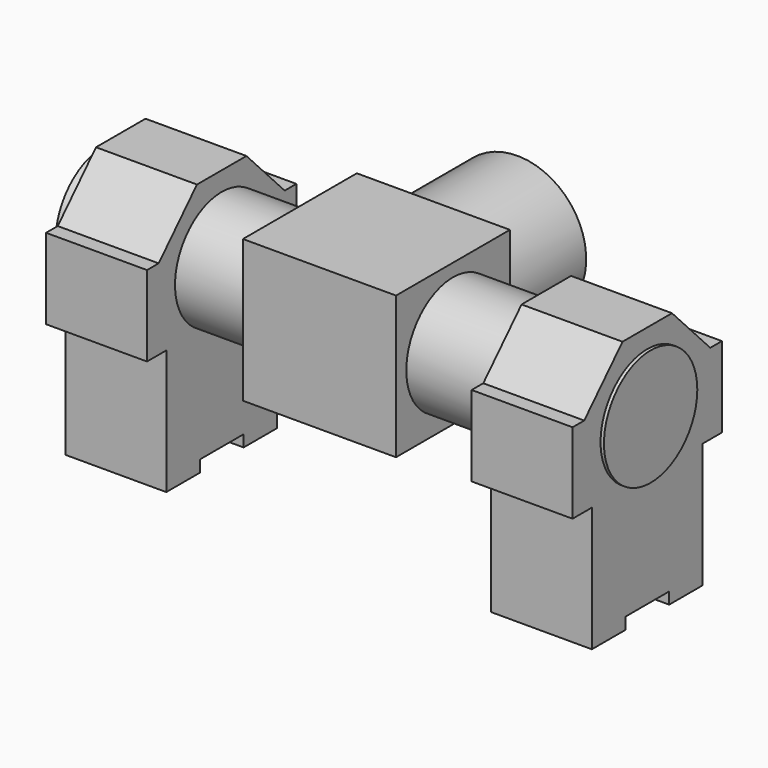
from build123d import *

# Parameters (mm, degrees)
F0_R      = 12.7
F1_DEPTH  = 59.69
F2_W      = 30.988
F2_H      = 30.988
F3_DEPTH  = 16.6624
F7_DEPTH  = 21.971
F9_DEPTH  = 21.971
F10_R     = 14.986
F11_DEPTH = 22.86
F12_W     = 11.938
F12_H     = 5.08
F13_DEPTH = 118.6444


with BuildPart() as f1:
    # F0 (on Right) → F1 (new body, symmetric)
    with BuildSketch(Plane.YZ):
        Circle(F0_R)
    extrude(amount=F1_DEPTH, both=True)

    # F2 (on Right) → F3 (join, symmetric)
    with BuildSketch(Plane.YZ):
        Rectangle(F2_W, F2_H)
    extrude(amount=F3_DEPTH, both=True)

    # F6 (on offset) → F7 (join)
    with BuildSketch(Plane.YZ.offset(36.9824)):
        Polygon((-20.32, 5.969), (-20.32, -11.557), (-15.0749, -11.557), (-15.0749, -38.712503105), (0, -38.712503105), (15.0749, -38.712503105), (15.0749, -11.557), (20.32, -11.557), (20.32, 5.969), (17.145, 5.969), (6.731, 16.837296895), (0, 16.837296895), (-6.731, 16.837296895), (-17.145, 5.969), align=None)
    extrude(amount=F7_DEPTH)

    # F8 (on offset) → F9 (join)
    with BuildSketch(Plane(origin=(-33.6804, 0, 0), x_dir=(0, -1, 0), z_dir=(-1, 0, 0))):
        Polygon((-15.0749, -38.712503105), (15.0749, -38.712503105), (15.0749, -11.557), (20.32, -11.557), (20.32, 5.969), (17.145, 5.969), (6.731, 16.837296895), (-6.731, 16.837296895), (-17.145, 5.969), (-20.32, 5.969), (-20.32, -11.557), (-15.0749, -11.557), align=None)
    extrude(amount=F9_DEPTH)

    # F10 (on face) → F11 (join)
    with BuildSketch(Plane(origin=(0, 15.494, 0), x_dir=(-1, 0, 0), z_dir=(0, 1, 0))):
        Circle(F10_R)
    extrude(amount=F11_DEPTH)

    # F12 (on face) → F13 (cut, through all)
    with BuildSketch(Plane.YZ.offset(58.9534)):
        with Locations((0, -38.712503105)):
            Rectangle(F12_W, F12_H)
    extrude(amount=-F13_DEPTH, mode=Mode.SUBTRACT)


solid = f1.part
